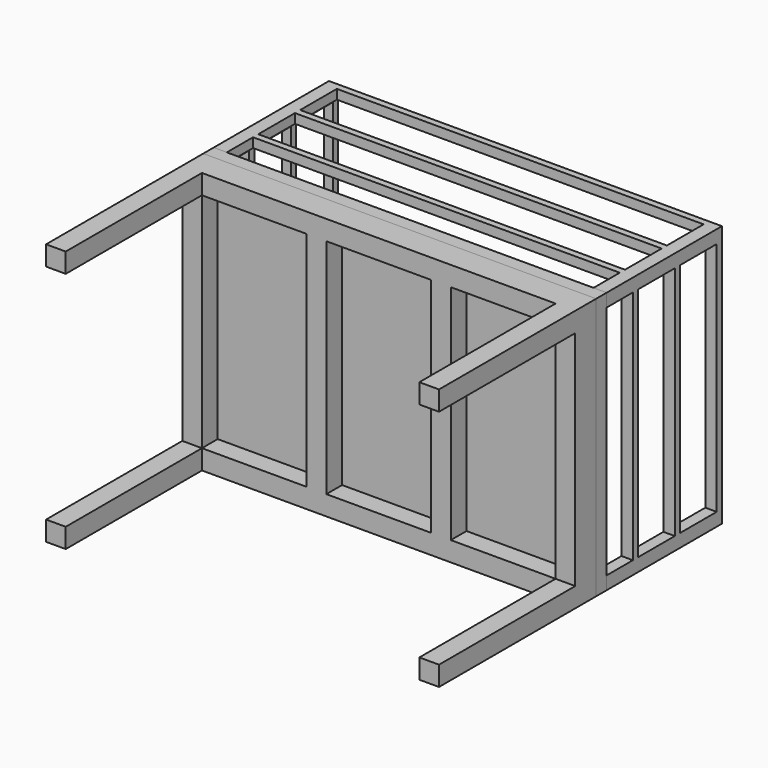
from build123d import *

# Parameters (mm, degrees)
F0_W      = 3000
F0_H      = 2000
F1_DEPTH  = 50
F2_W      = 150
F2_H      = 150
F3_DEPTH  = 1450
F5_DEPTH  = 1200
F6_W      = 350
F6_H      = 1800
F7_DEPTH  = 3000.001
F8_W      = 1713.125038147
F8_H      = 350
F9_DEPTH  = 110
F10_W     = 2800
F10_H     = 350
F11_DEPTH = 110
F12_DEPTH = 100
F13_W     = 150
F13_H     = 1700
F13_W_2   = 2700
F13_H_2   = 150
F14_DEPTH = 150
F15_W     = 150
F15_H     = 1700
F16_DEPTH = 150
F17_T     = -40


with BuildPart() as f1:
    # F0 (on Front) → F1 (new body)
    with BuildSketch(Plane.XZ):
        Rectangle(F0_W, F0_H)
    extrude(amount=F1_DEPTH)

    # F2 (on face) → F3 (join)
    with BuildSketch(Plane.XZ.offset(50)):
        with Locations((-1425, 925)):
            Rectangle(F2_W, F2_H)
        with Locations((1425, 925)):
            Rectangle(F2_W, F2_H)
        with Locations((-1425, -925)):
            Rectangle(F2_W, F2_H)
        with Locations((1425, -925)):
            Rectangle(F2_W, F2_H)
    extrude(amount=F3_DEPTH)


with BuildPart() as f5:
    # F4 (on face) → F5 (new body)
    with BuildSketch(Plane(origin=(0, 0, 0), x_dir=(-1, 0, 0), z_dir=(0, 1, 0))):
        Polygon((-1413.125038147, -1000), (-1413.125038147, 927.5000095367), (1430.624961853, 927.5000095367), (1430.624961853, -933.333337307), (-413.125038147, -933.333337307), (-413.125038147, -1000), (1500, -1000), (1500, 1000), (-1500, 1000), (-1500, -1000), align=None)
    extrude(amount=F5_DEPTH)

    # F6 (on face) → F7 (cut, through all)
    with BuildSketch(Plane(origin=(-1500, 0, 0), x_dir=(0, -1, 0), z_dir=(-1, 0, 0))):
        with Locations((-975, 0)):
            Rectangle(F6_W, F6_H)
        with Locations((-575, 0)):
            Rectangle(F6_W, F6_H)
        with Locations((-175, 0)):
            Rectangle(F6_W, F6_H)
    extrude(amount=-F7_DEPTH, mode=Mode.SUBTRACT)

    # F8 (on face) → F9 (cut)
    with BuildSketch(Plane(origin=(0, 0, -1000), x_dir=(1, 0, 0), z_dir=(0, 0, -1))):
        with Locations((-543.4374809265, -975)):
            Rectangle(F8_W, F8_H)
        with Locations((-543.4374809265, -175)):
            Rectangle(F8_W, F8_H)
        with Locations((-543.4374809265, -575)):
            Rectangle(F8_W, F8_H)
    extrude(amount=-F9_DEPTH, mode=Mode.SUBTRACT)

    # F10 (on face) → F11 (cut)
    with BuildSketch(Plane.XY.offset(1000)):
        with Locations((0, 975)):
            Rectangle(F10_W, F10_H)
        with Locations((0, 575)):
            Rectangle(F10_W, F10_H)
        with Locations((0, 175)):
            Rectangle(F10_W, F10_H)
    extrude(amount=-F11_DEPTH, mode=Mode.SUBTRACT)


with BuildPart() as f12:
    # F12 (new): a face of the model
    f12_faces = [f1.part.faces().sort_by_distance(p)[0] for p in [
        (0, 0, 0),
    ]]
    extrude(f12_faces, amount=F12_DEPTH)

    # F17
    f17_openings = [f12.faces().sort_by_distance(p)[0] for p in [
        (0, 100, 0),
    ]]
    offset(amount=F17_T, openings=f17_openings)


with BuildPart() as f1_1:
    add(f1.part)

    # F13 (on face) → F14 (join)
    with BuildSketch(Plane.XZ.offset(50)):
        with Locations((-1425, 0)):
            Rectangle(F13_W, F13_H)
        with Locations((0, 925)):
            Rectangle(F13_W_2, F13_H_2)
        with Locations((1425, 0)):
            Rectangle(F13_W, F13_H)
        with Locations((0, -925)):
            Rectangle(F13_W_2, F13_H_2)
    extrude(amount=F14_DEPTH)

    # F15 (on face) → F16 (join)
    with BuildSketch(Plane.XZ.offset(50)):
        with Locations((-475, 0)):
            Rectangle(F15_W, F15_H)
        with Locations((475, 0)):
            Rectangle(F15_W, F15_H)
    extrude(amount=F16_DEPTH)


solid = Compound([f5.part, f12.part, f1_1.part])
